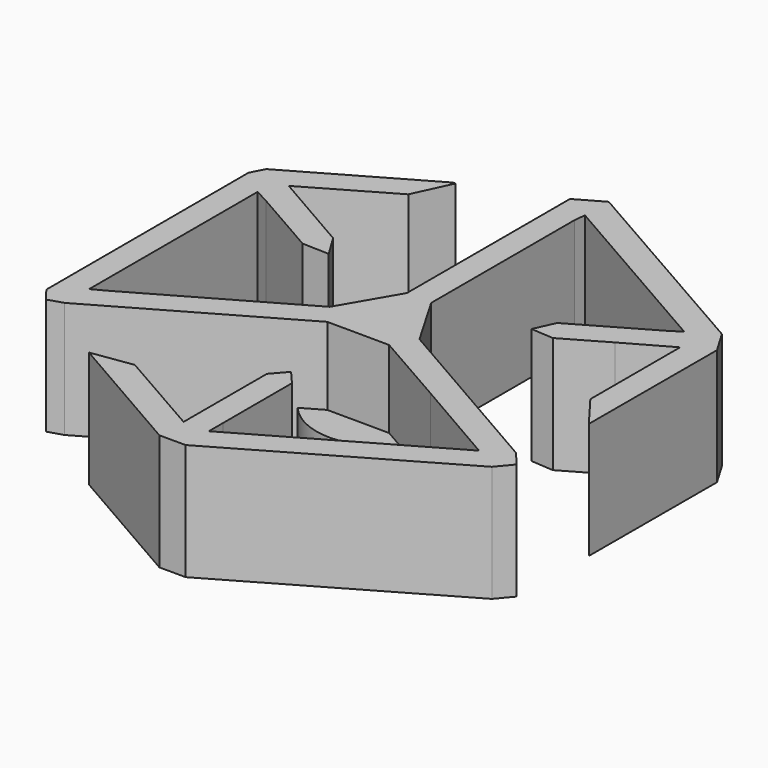
from build123d import *

# Parameters (mm, degrees)
F1_DEPTH = 15
F2_R     = 8.694701
F3_DEPTH = 5


with BuildPart() as f1:
    # F0 (on Top) → F1 (new body)
    with BuildSketch(Plane.XY):
        Polygon((27.224695, -0.747069), (30.476693, -5.05275), (30.51011, 15.563046), (28.704535, 18.616951), (1.788177, 34.024968), (-1.658469, 32.066776), (-1.657608, 5.786382), (-5.847533, -1.416796), (-25.277183, -12.518272), (-27.186627, -13.535264), (-27.186627, 13.62673), (-25.336438, 12.642811), (-16.61983, 7.654313), (-13.137872, 7.527705), (-14.951026, 10.4991), (-25.54745, 16.601398), (-14.99564, 22.683369), (-12.756844, 27.509259), (-13.08654, 27.50323), (-29.600777, 18.048338), (-30.51011, 16.311149), (-30.488578, -16.318212), (-29.148953, -18.025946), (-27.23882, -17.433045), (-3.988732, -4.133598), (4.015948, -4.177696), (13.807081, -9.777354), (25.484232, -16.522162), (1.589739, -30.210215), (1.589739, -27.905446), (1.581988, -16.79398), (-0.029628, -14.929839), (-1.658641, -16.781577), (-1.665015, -25.247899), (-1.665187, -30.210215), (-13.26534, -23.569449), (-18.564069, -24.349419), (-1.742702, -34.019113), (1.662258, -34.024969), (28.694889, -18.470019), (30.332515, -16.507348), (28.683176, -14.561213), (5.622568, -1.288638), (1.592151, 5.633247), (1.592323, 28.738642), (1.749419, 30.225545), (25.414641, 16.645323), (24.018861, 15.755282), (14.239613, 10.138571), (13.039342, 7.50135), (15.945624, 7.300501), (21.444686, 10.46396), (27.224695, 13.726121), align=None)
    extrude(amount=F1_DEPTH)

    # F2 (on Top) → F3 (join)
    with BuildSketch(Plane.XY):
        Circle(F2_R)
    extrude(amount=F3_DEPTH)


solid = f1.part
